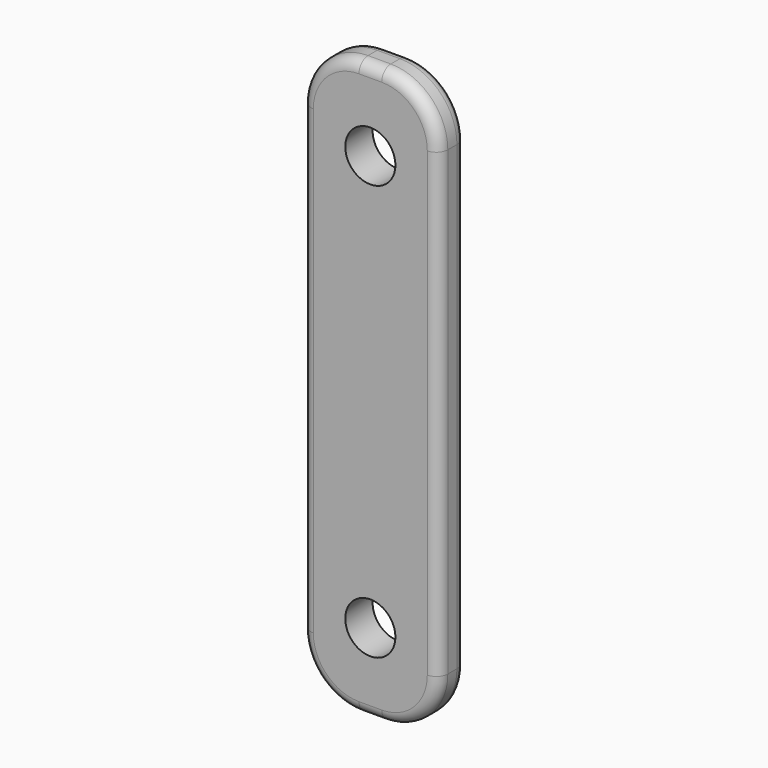
from build123d import *

# Parameters (mm, degrees)
F0_W           = 12
F0_H           = 50.5
F1_DEPTH       = 3
F4_D           = 4.4
F4_DEPTH       = 70
F4_CBORE_D     = 8.25
F4_CBORE_DEPTH = 4
F5_R           = 5
F6_R           = 1


with BuildPart() as f1:
    # F0 (on Front) → F1 (new body)
    with BuildSketch(Plane.XZ):
        Rectangle(F0_W, F0_H)
    extrude(amount=F1_DEPTH)

    # F4
    with Locations(Plane(origin=(0, 8, 0), x_dir=(1, 0, 0), z_dir=(0, 1, 0))):
        with Locations((0, 18.228), (0, -18.228)):
            CounterBoreHole(F4_D / 2, F4_CBORE_D / 2, F4_CBORE_DEPTH, depth=F4_DEPTH)

    # F5
    f5_edges = [f1.edges().sort_by_distance(p)[0] for p in [
        (-6, -1.5, 25.25),
        (6, -1.5, 25.25),
        (-6, -1.5, -25.25),
        (6, -1.5, -25.25),
    ]]
    fillet(f5_edges, radius=F5_R)

    # F6
    f6_edges = [f1.edges().sort_by_distance(p)[0] for p in [
        (6, 0, 0),
        (6, -3, 0),
    ]]
    fillet(f6_edges, radius=F6_R)


solid = f1.part
